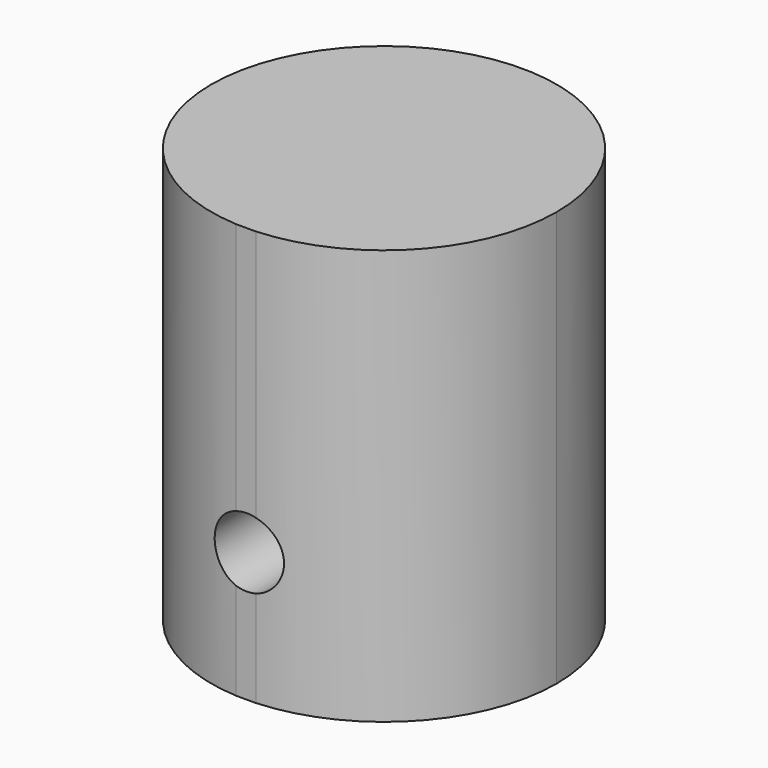
from build123d import *

# Parameters (mm, degrees)
F1_DEPTH = 30.52679
F2_R     = 2.54
F3_DEPTH = 30.22458


with BuildPart() as f1:
    # F0 (on Top) → F1 (new body)
    with BuildSketch(Plane.XY):
        with BuildLine():
            ThreePointArc((-45.321588, -0.787219), (-36.813297, 3.171782), (-33.346183, 11.892093))
            ThreePointArc((-33.346183, 11.892093), (-36.813297, 20.612404), (-45.321588, 24.571406))
            Line((-45.321588, 24.571406), (-46.770777, 24.571406))
            ThreePointArc((-46.770777, 24.571406), (-58.746183, 11.892093), (-46.770777, -0.787219))
            Line((-46.770777, -0.787219), (-45.321588, -0.787219))
        make_face()
    extrude(amount=F1_DEPTH)

    # F2 (on Front) → F3 (cut, symmetric)
    with BuildSketch(Plane.XZ):
        with Locations((-45.991383, 9.538601)):
            Circle(F2_R)
    extrude(amount=F3_DEPTH, both=True, mode=Mode.SUBTRACT)


solid = f1.part
